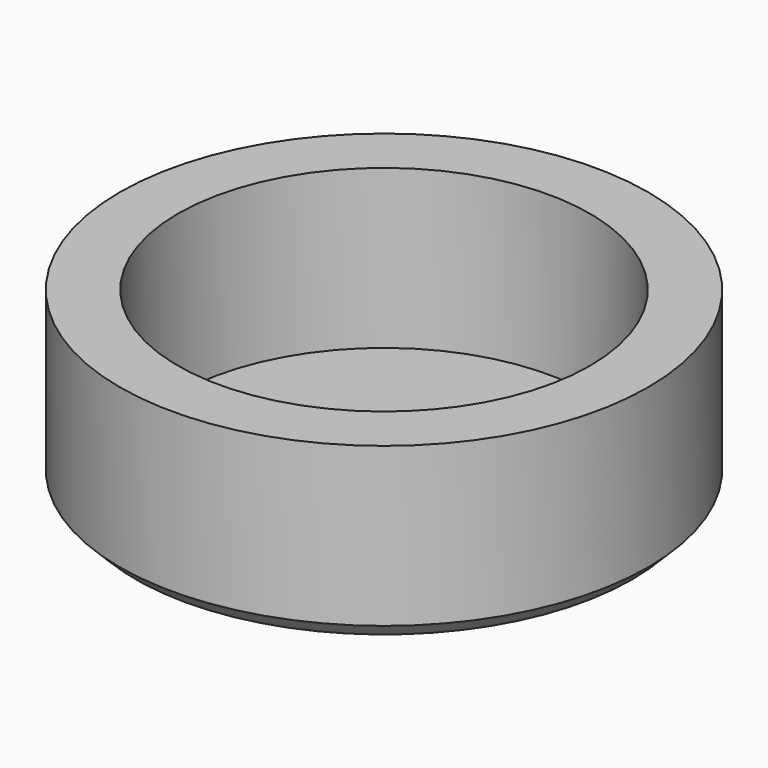
from build123d import *

# Parameters (mm, degrees)
F0_R     = 4.233333
F1_DEPTH = 2.794
F2_R     = 3.302
F3_DEPTH = 2.54
F4_SIZE  = 0.254


with BuildPart() as f1:
    # F0 (on Top) → F1 (new body)
    with BuildSketch(Plane.XY):
        Circle(F0_R)
    extrude(amount=F1_DEPTH)

    # F2 (on face) → F3 (cut)
    with BuildSketch(Plane.XY.offset(2.794)):
        Circle(F2_R)
    extrude(amount=-F3_DEPTH, mode=Mode.SUBTRACT)

    # F4
    f4_edges = [f1.edges().sort_by_distance(p)[0] for p in [
        (-4.233333, 0, 0),
    ]]
    chamfer(f4_edges, length=F4_SIZE)


solid = f1.part
